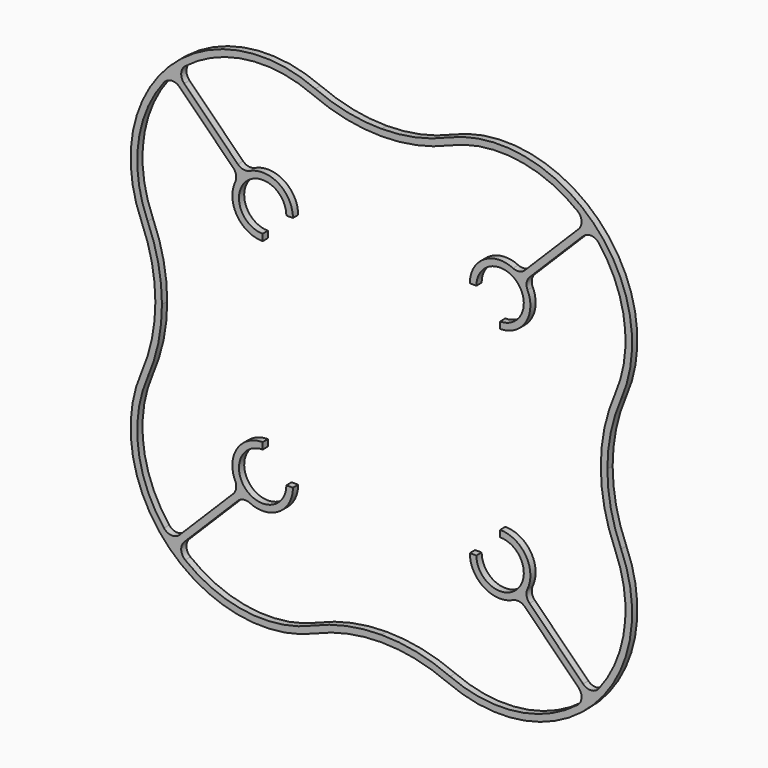
from build123d import *

# Parameters (mm, degrees)
F1_DEPTH = 1
F2_R     = 1.5875


with BuildPart() as f1:
    # F0 (on Front) → F1 (new body)
    with BuildSketch(Plane.XZ):
        with BuildLine():
            ThreePointArc((-18.034, 14.434), (-20.579584, 20.579584), (-14.434, 18.034))
            Line((-14.434, 18.034), (-13.434, 18.034))
            ThreePointArc((-13.434, 18.034), (-16.044953, 22.181733), (-20.913866, 21.620973))
            Line((-20.913866, 21.620973), (-31.14619, 31.853297))
            ThreePointArc((-31.14619, 31.853297), (-21.336036, 36.795638), (-10.427948, 35.499694))
            ThreePointArc((-10.427948, 35.499694), (-5.325882, 33.87639), (0, 33.3276))
            Line((0, 33.3276), (0, 34.3276))
            ThreePointArc((0, 34.3276), (-5.121964, 34.855377), (-10.02868, 36.416529))
            ThreePointArc((-10.02868, 36.416529), (-32.211491, 32.211491), (-36.416529, 10.02868))
            ThreePointArc((-36.416529, 10.02868), (-34.855377, 5.121964), (-34.3276, 0))
            Line((-34.3276, 0), (-33.3276, 0))
            ThreePointArc((-33.3276, 0), (-33.87639, 5.325882), (-35.499694, 10.427948))
            ThreePointArc((-35.499694, 10.427948), (-36.795638, 21.336036), (-31.853297, 31.14619))
            Line((-31.853297, 31.14619), (-21.620973, 20.913866))
            ThreePointArc((-21.620973, 20.913866), (-22.181733, 16.044953), (-18.034, 13.434))
            Line((-18.034, 13.434), (-18.034, 14.434))
        make_face()
    extrude(amount=F1_DEPTH)

    # F2
    f2_edges = [f1.edges().sort_by_distance(p)[0] for p in [
        (-31.853297, -0.5, 31.14619),
        (-31.14619, -0.5, 31.853297),
        (-20.913866, -0.5, 21.620973),
        (-21.620973, -0.5, 20.913866),
    ]]
    fillet(f2_edges, radius=F2_R)

    # F3: F1 across plane


with BuildPart() as f1_1:
    add(f1.part)
    add(f1.part.mirror(Plane.XY))

    # F4: F1 across plane


with BuildPart() as f1_2:
    add(f1_1.part)
    add(f1_1.part.mirror(Plane.YZ))


solid = f1_2.part
